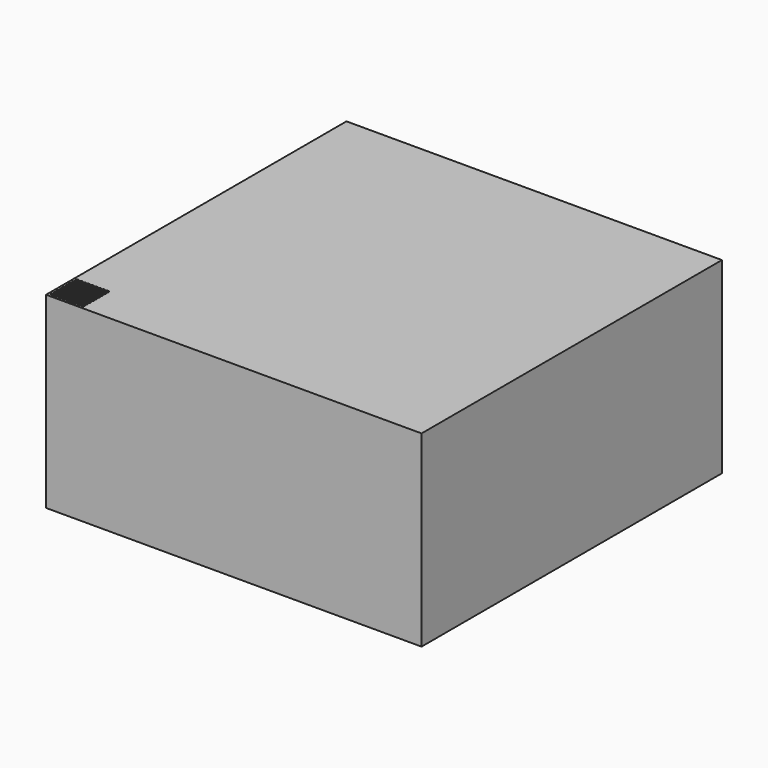
from build123d import *

# Parameters (mm, degrees)
F0_W     = 100
F0_H     = 100
F1_DEPTH = 25
F2_W     = 100
F2_H     = 100
F2_R     = 0.45
F3_DEPTH = 25


with BuildPart() as f1:
    # F0 (on Top) → F1 (new body)
    with BuildSketch(Plane.XY):
        Rectangle(F0_W, F0_H)
    extrude(amount=F1_DEPTH)

    # F2 (on face) → F3 (join)
    with BuildSketch(Plane.XY.offset(25)):
        Rectangle(F2_W, F2_H)
        with Locations((-49, -49)):
            Circle(F2_R, mode=Mode.SUBTRACT)
        with Locations((-48, -49)):
            Circle(F2_R, mode=Mode.SUBTRACT)
        with Locations((-47, -49)):
            Circle(F2_R, mode=Mode.SUBTRACT)
        with Locations((-49, -48)):
            Circle(F2_R, mode=Mode.SUBTRACT)
        with Locations((-49, -47)):
            Circle(F2_R, mode=Mode.SUBTRACT)
        with Locations((-48, -48)):
            Circle(F2_R, mode=Mode.SUBTRACT)
        with Locations((-47, -48)):
            Circle(F2_R, mode=Mode.SUBTRACT)
        with Locations((-48, -47)):
            Circle(F2_R, mode=Mode.SUBTRACT)
        with Locations((-47, -47)):
            Circle(F2_R, mode=Mode.SUBTRACT)
        with Locations((-46, -49)):
            Circle(F2_R, mode=Mode.SUBTRACT)
        with Locations((-45, -49)):
            Circle(F2_R, mode=Mode.SUBTRACT)
        with Locations((-44, -49)):
            Circle(F2_R, mode=Mode.SUBTRACT)
        with Locations((-46, -48)):
            Circle(F2_R, mode=Mode.SUBTRACT)
        with Locations((-46, -47)):
            Circle(F2_R, mode=Mode.SUBTRACT)
        with Locations((-45, -48)):
            Circle(F2_R, mode=Mode.SUBTRACT)
        with Locations((-44, -48)):
            Circle(F2_R, mode=Mode.SUBTRACT)
        with Locations((-45, -47)):
            Circle(F2_R, mode=Mode.SUBTRACT)
        with Locations((-44, -47)):
            Circle(F2_R, mode=Mode.SUBTRACT)
        with Locations((-49, -46)):
            Circle(F2_R, mode=Mode.SUBTRACT)
        with Locations((-48, -46)):
            Circle(F2_R, mode=Mode.SUBTRACT)
        with Locations((-47, -46)):
            Circle(F2_R, mode=Mode.SUBTRACT)
        with Locations((-49, -45)):
            Circle(F2_R, mode=Mode.SUBTRACT)
        with Locations((-49, -44)):
            Circle(F2_R, mode=Mode.SUBTRACT)
        with Locations((-48, -45)):
            Circle(F2_R, mode=Mode.SUBTRACT)
        with Locations((-47, -45)):
            Circle(F2_R, mode=Mode.SUBTRACT)
        with Locations((-48, -44)):
            Circle(F2_R, mode=Mode.SUBTRACT)
        with Locations((-47, -44)):
            Circle(F2_R, mode=Mode.SUBTRACT)
        with Locations((-46, -46)):
            Circle(F2_R, mode=Mode.SUBTRACT)
        with Locations((-45, -46)):
            Circle(F2_R, mode=Mode.SUBTRACT)
        with Locations((-44, -46)):
            Circle(F2_R, mode=Mode.SUBTRACT)
        with Locations((-46, -45)):
            Circle(F2_R, mode=Mode.SUBTRACT)
        with Locations((-46, -44)):
            Circle(F2_R, mode=Mode.SUBTRACT)
        with Locations((-45, -45)):
            Circle(F2_R, mode=Mode.SUBTRACT)
        with Locations((-44, -45)):
            Circle(F2_R, mode=Mode.SUBTRACT)
        with Locations((-45, -44)):
            Circle(F2_R, mode=Mode.SUBTRACT)
        with Locations((-44, -44)):
            Circle(F2_R, mode=Mode.SUBTRACT)
        with Locations((-43, -49)):
            Circle(F2_R, mode=Mode.SUBTRACT)
        with Locations((-42, -49)):
            Circle(F2_R, mode=Mode.SUBTRACT)
        with Locations((-41, -49)):
            Circle(F2_R, mode=Mode.SUBTRACT)
        with Locations((-43, -48)):
            Circle(F2_R, mode=Mode.SUBTRACT)
        with Locations((-43, -47)):
            Circle(F2_R, mode=Mode.SUBTRACT)
        with Locations((-42, -48)):
            Circle(F2_R, mode=Mode.SUBTRACT)
        with Locations((-41, -48)):
            Circle(F2_R, mode=Mode.SUBTRACT)
        with Locations((-42, -47)):
            Circle(F2_R, mode=Mode.SUBTRACT)
        with Locations((-41, -47)):
            Circle(F2_R, mode=Mode.SUBTRACT)
        with Locations((-43, -46)):
            Circle(F2_R, mode=Mode.SUBTRACT)
        with Locations((-42, -46)):
            Circle(F2_R, mode=Mode.SUBTRACT)
        with Locations((-41, -46)):
            Circle(F2_R, mode=Mode.SUBTRACT)
        with Locations((-43, -45)):
            Circle(F2_R, mode=Mode.SUBTRACT)
        with Locations((-43, -44)):
            Circle(F2_R, mode=Mode.SUBTRACT)
        with Locations((-42, -45)):
            Circle(F2_R, mode=Mode.SUBTRACT)
        with Locations((-41, -45)):
            Circle(F2_R, mode=Mode.SUBTRACT)
        with Locations((-42, -44)):
            Circle(F2_R, mode=Mode.SUBTRACT)
        with Locations((-41, -44)):
            Circle(F2_R, mode=Mode.SUBTRACT)
        with Locations((-49, -43)):
            Circle(F2_R, mode=Mode.SUBTRACT)
        with Locations((-48, -43)):
            Circle(F2_R, mode=Mode.SUBTRACT)
        with Locations((-47, -43)):
            Circle(F2_R, mode=Mode.SUBTRACT)
        with Locations((-49, -42)):
            Circle(F2_R, mode=Mode.SUBTRACT)
        with Locations((-49, -41)):
            Circle(F2_R, mode=Mode.SUBTRACT)
        with Locations((-48, -42)):
            Circle(F2_R, mode=Mode.SUBTRACT)
        with Locations((-47, -42)):
            Circle(F2_R, mode=Mode.SUBTRACT)
        with Locations((-48, -41)):
            Circle(F2_R, mode=Mode.SUBTRACT)
        with Locations((-47, -41)):
            Circle(F2_R, mode=Mode.SUBTRACT)
        with Locations((-46, -43)):
            Circle(F2_R, mode=Mode.SUBTRACT)
        with Locations((-45, -43)):
            Circle(F2_R, mode=Mode.SUBTRACT)
        with Locations((-44, -43)):
            Circle(F2_R, mode=Mode.SUBTRACT)
        with Locations((-46, -42)):
            Circle(F2_R, mode=Mode.SUBTRACT)
        with Locations((-46, -41)):
            Circle(F2_R, mode=Mode.SUBTRACT)
        with Locations((-45, -42)):
            Circle(F2_R, mode=Mode.SUBTRACT)
        with Locations((-44, -42)):
            Circle(F2_R, mode=Mode.SUBTRACT)
        with Locations((-45, -41)):
            Circle(F2_R, mode=Mode.SUBTRACT)
        with Locations((-44, -41)):
            Circle(F2_R, mode=Mode.SUBTRACT)
        with Locations((-43, -43)):
            Circle(F2_R, mode=Mode.SUBTRACT)
        with Locations((-42, -43)):
            Circle(F2_R, mode=Mode.SUBTRACT)
        with Locations((-41, -43)):
            Circle(F2_R, mode=Mode.SUBTRACT)
        with Locations((-43, -42)):
            Circle(F2_R, mode=Mode.SUBTRACT)
        with Locations((-43, -41)):
            Circle(F2_R, mode=Mode.SUBTRACT)
        with Locations((-42, -42)):
            Circle(F2_R, mode=Mode.SUBTRACT)
        with Locations((-41, -42)):
            Circle(F2_R, mode=Mode.SUBTRACT)
        with Locations((-42, -41)):
            Circle(F2_R, mode=Mode.SUBTRACT)
        with Locations((-41, -41)):
            Circle(F2_R, mode=Mode.SUBTRACT)
    extrude(amount=F3_DEPTH)


solid = f1.part
